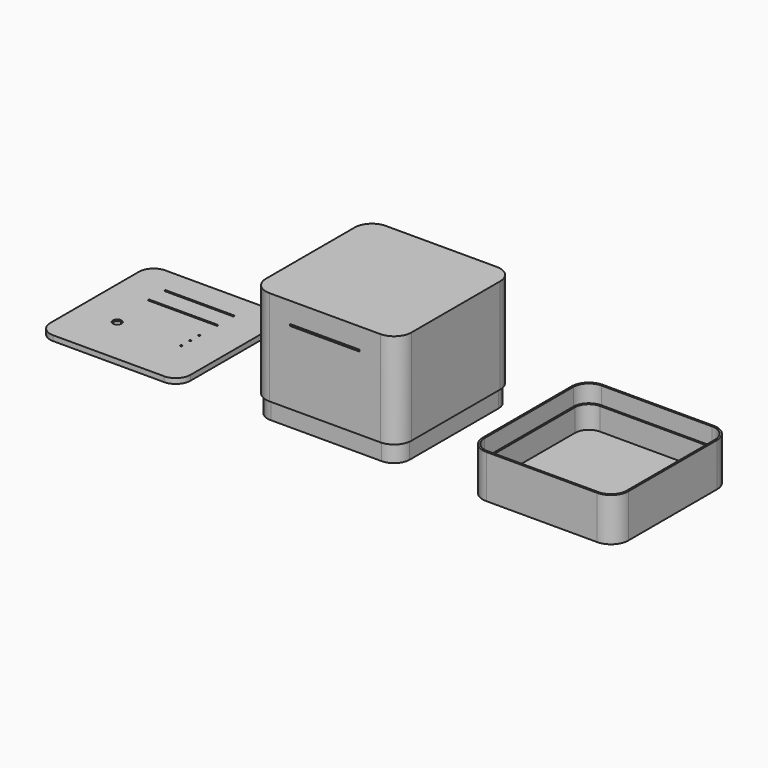
from build123d import *

# Parameters (mm, degrees)
F1_DEPTH  = 25
F2_T      = -2
F4_DEPTH  = 10
F6_DEPTH  = 65
F7_T      = -2
F8_W      = 91.175536
F8_H      = 98.510154
F9_DEPTH  = 10
F11_DEPTH = 3
F12_R     = 2.5
F12_W     = 1
F12_H     = 1
F12_W_2   = 40
F13_DEPTH = 3
F14_W     = 40
F14_H     = 1
F15_DEPTH = 84.001
F16_T     = -1
F17_W     = 56.260198
F17_H     = 52.576504
F18_DEPTH = 25


with BuildPart() as f1:
    # F0 (on Top) → F1 (new body)
    with BuildSketch(Plane.XY):
        with BuildLine():
            ThreePointArc((-42, -32), (-39.071068, -39.071068), (-32, -42))
            Line((-32, -42), (32, -42))
            ThreePointArc((32, -42), (39.071068, -39.071068), (42, -32))
            Line((42, -32), (42, 32))
            ThreePointArc((42, 32), (39.071068, 39.071068), (32, 42))
            Line((32, 42), (-32, 42))
            ThreePointArc((-32, 42), (-39.071068, 39.071068), (-42, 32))
            Line((-42, 32), (-42, -32))
        make_face()
    extrude(amount=F1_DEPTH)

    # F2
    f2_openings = [f1.faces().sort_by_distance(p)[0] for p in [
        (0, 0, 25),
    ]]
    offset(amount=F2_T, openings=f2_openings)

    # F3 (on face) → F4 (cut)
    with BuildSketch(Plane.XY.offset(25)):
        with BuildLine():
            Line((32, 41), (-32, 41))
            ThreePointArc((-32, 41), (-38.363961, 38.363961), (-41, 32))
            Line((-41, 32), (-41, -32))
            ThreePointArc((-41, -32), (-38.363961, -38.363961), (-32, -41))
            Line((-32, -41), (32, -41))
            ThreePointArc((32, -41), (38.363961, -38.363961), (41, -32))
            Line((41, -32), (41, 32))
            ThreePointArc((41, 32), (38.363961, 38.363961), (32, 41))
        make_face()
    extrude(amount=-F4_DEPTH, mode=Mode.SUBTRACT)


with BuildPart() as f6:
    # F5 (on Top) → F6 (new body)
    with BuildSketch(Plane.XY):
        with BuildLine():
            Line((-157.185187, -42), (-93.185187, -42))
            ThreePointArc((-93.185187, -42), (-86.114119, -39.071068), (-83.185187, -32))
            Line((-83.185187, -32), (-83.185187, 32))
            ThreePointArc((-83.185187, 32), (-86.114119, 39.071068), (-93.185187, 42))
            Line((-93.185187, 42), (-157.185187, 42))
            ThreePointArc((-157.185187, 42), (-164.256255, 39.071068), (-167.185187, 32))
            Line((-167.185187, 32), (-167.185187, -32))
            ThreePointArc((-167.185187, -32), (-164.256255, -39.071068), (-157.185187, -42))
        make_face()
    extrude(amount=F6_DEPTH)

    # F7
    f7_openings = [f6.faces().sort_by_distance(p)[0] for p in [
        (-125.185187, 0, 0),
    ]]
    offset(amount=F7_T, openings=f7_openings)

    # F8 (on face) → F9 (cut)
    with BuildSketch(Plane(origin=(0, 0, 0), x_dir=(1, 0, 0), z_dir=(0, 0, -1))):
        with Locations((-125.185187, 0)):
            Rectangle(F8_W, F8_H)
        with BuildLine():
            ThreePointArc((-166.160187, 31.975), (-163.524148, 38.338961), (-157.160187, 40.975))
            Line((-157.160187, 40.975), (-93.210187, 40.975))
            ThreePointArc((-93.210187, 40.975), (-86.846226, 38.338961), (-84.210187, 31.975))
            Line((-84.210187, 31.975), (-84.210187, -31.975))
            ThreePointArc((-84.210187, -31.975), (-86.846226, -38.338961), (-93.210187, -40.975))
            Line((-93.210187, -40.975), (-157.160187, -40.975))
            ThreePointArc((-157.160187, -40.975), (-163.524148, -38.338961), (-166.160187, -31.975))
            Line((-166.160187, -31.975), (-166.160187, 31.975))
        make_face(mode=Mode.SUBTRACT)
    extrude(amount=-F9_DEPTH, mode=Mode.SUBTRACT)

    # F10 (on face) → F11 (cut)
    with BuildSketch(Plane(origin=(0, 0, 0), x_dir=(1, 0, 0), z_dir=(0, 0, -1))):
        with BuildLine():
            Line((-157.185187, -40.525), (-93.135187, -40.525))
            ThreePointArc((-93.135187, -40.525), (-87.12478, -38.035408), (-84.635187, -32.025))
            Line((-84.635187, -32.025), (-84.635187, 32.025))
            ThreePointArc((-84.635187, 32.025), (-87.12478, 38.035408), (-93.135187, 40.525))
            Line((-93.135187, 40.525), (-157.185187, 40.525))
            ThreePointArc((-157.185187, 40.525), (-163.195595, 38.035408), (-165.685187, 32.025))
            Line((-165.685187, 32.025), (-165.685187, -32.025))
            ThreePointArc((-165.685187, -32.025), (-163.195595, -38.035408), (-157.185187, -40.525))
        make_face()
    extrude(amount=-F11_DEPTH, mode=Mode.SUBTRACT)

    # F14 (on face) → F15 (cut, through all)
    with BuildSketch(Plane(origin=(0, 42, 0), x_dir=(-1, 0, 0), z_dir=(0, 1, 0))):
        with Locations((125.185187, 52.67)):
            Rectangle(F14_W, F14_H)
    extrude(amount=-F15_DEPTH, mode=Mode.SUBTRACT)


with BuildPart() as f13:
    # F12 (on Top) → F13 (new body)
    with BuildSketch(Plane.XY):
        with BuildLine():
            ThreePointArc((-290.5, -33.5), (-288.010408, -39.510408), (-282, -42))
            Line((-282, -42), (-218, -42))
            ThreePointArc((-218, -42), (-211.989592, -39.510408), (-209.5, -33.5))
            Line((-209.5, -33.5), (-209.5, 30.5))
            ThreePointArc((-209.5, 30.5), (-211.989592, 36.510408), (-218, 39))
            Line((-218, 39), (-282, 39))
            ThreePointArc((-282, 39), (-288.010408, 36.510408), (-290.5, 30.5))
            Line((-290.5, 30.5), (-290.5, -33.5))
        make_face()
        with Locations((-267.5, -13.88)):
            Circle(F12_R, mode=Mode.SUBTRACT)
        with Locations((-230.5, -13.88)):
            Rectangle(F12_W, F12_H, mode=Mode.SUBTRACT)
        with Locations((-230.5, -7.45)):
            Rectangle(F12_W, F12_H, mode=Mode.SUBTRACT)
        with Locations((-230.5, -1.02)):
            Rectangle(F12_W, F12_H, mode=Mode.SUBTRACT)
        with Locations((-250, 11.77)):
            Rectangle(F12_W_2, F12_H, mode=Mode.SUBTRACT)
        with Locations((-250, 23.53)):
            Rectangle(F12_W_2, F12_H, mode=Mode.SUBTRACT)
    extrude(amount=F13_DEPTH)

    # F16
    f16_openings = [f13.faces().sort_by_distance(p)[0] for p in [
        (-249.955426, -1.698718, 0),
    ]]
    offset(amount=F16_T, openings=f16_openings)

    # F17 (on face) → F18 (cut)
    with BuildSketch(Plane(origin=(0, 0, 2), x_dir=(1, 0, 0), z_dir=(0, 0, -1))):
        with Locations((-249.237731, -3.683705)):
            Rectangle(F17_W, F17_H)
    extrude(amount=F18_DEPTH, mode=Mode.SUBTRACT)


solid = Compound([f1.part, f6.part, f13.part])
